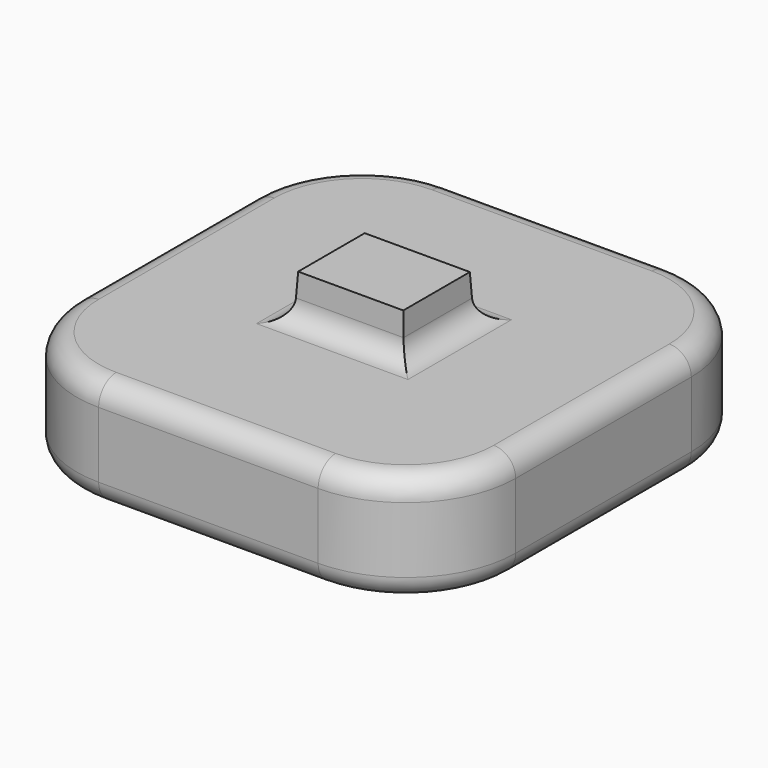
from build123d import *

# Parameters (mm, degrees)
F1_W     = 100
F1_H     = 100
F2_DEPTH = 25
F3_R     = 25
F4_R     = 5
F5_W     = 25
F5_H     = 20
F6_DEPTH = 10
F6_TAPER = 3
F7_R     = 5
F8_R     = 22.5
F9_DEPTH = 10


with BuildPart() as f2:
    # F1 (on Top) → F2 (new body)
    with BuildSketch(Plane.XY):
        Rectangle(F1_W, F1_H)
    extrude(amount=F2_DEPTH)

    # F3
    f3_edges = [f2.edges().sort_by_distance(p)[0] for p in [
        (50, -50, 12.5),
        (-50, -50, 12.5),
        (-50, 50, 12.5),
        (50, 50, 12.5),
    ]]
    fillet(f3_edges, radius=F3_R)

    # F4
    f4_edges = [f2.edges().sort_by_distance(p)[0] for p in [
        (0, -50, 25),
        (-42.67767, -42.67767, 25),
        (42.67767, -42.67767, 25),
        (-50, 0, 25),
        (50, 0, 25),
        (-42.67767, 42.67767, 25),
        (42.67767, 42.67767, 25),
        (0, 50, 25),
        (0, -50, 0),
        (-42.67767, -42.67767, 0),
        (42.67767, -42.67767, 0),
        (-50, 0, 0),
        (50, 0, 0),
        (-42.67767, 42.67767, 0),
        (42.67767, 42.67767, 0),
        (0, 50, 0),
    ]]
    fillet(f4_edges, radius=F4_R)

    # F5 (on face) → F6 (join)
    with BuildSketch(Plane.XY.offset(25)):
        Rectangle(F5_W, F5_H)
    extrude(amount=F6_DEPTH, taper=F6_TAPER)

    # F7
    f7_edges = [f2.edges().sort_by_distance(p)[0] for p in [
        (0, -45, 25),
        (-39.142136, -39.142136, 25),
        (39.142136, -39.142136, 25),
        (-45, 0, 25),
        (45, 0, 25),
        (-39.142136, 39.142136, 25),
        (39.142136, 39.142136, 25),
        (0, 45, 25),
        (12.5, 0, 25),
        (0, 10, 25),
        (-12.5, 0, 25),
        (0, -10, 25),
    ]]
    fillet(f7_edges, radius=F7_R)

    # F8 (on face) → F9 (cut)
    with BuildSketch(Plane(origin=(0, 0, 0), x_dir=(1, 0, 0), z_dir=(0, 0, -1))):
        Circle(F8_R)
    extrude(amount=-F9_DEPTH, mode=Mode.SUBTRACT)


solid = f2.part
